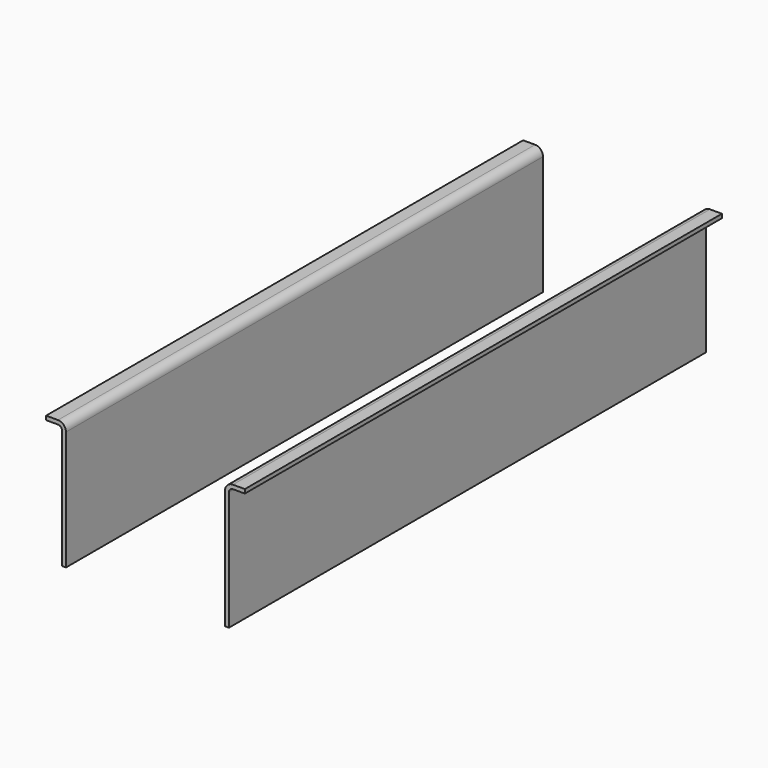
from build123d import *

# Parameters (mm, degrees)
F1_DEPTH = 150


with BuildPart() as f1:
    # F0 (on Front) → F1 (new body)
    with BuildSketch(Plane.XZ):
        with BuildLine():
            ThreePointArc((21, 30), (21.292893, 30.707107), (22, 31))
            Line((22, 31), (25, 31))
            Line((25, 31), (25, 32))
            Line((25, 32), (22, 32))
            ThreePointArc((22, 32), (20.585786, 31.414214), (20, 30))
            Line((20, 30), (20, 0))
            Line((20, 0), (21, 0))
            Line((21, 0), (21, 30))
        make_face()
        with BuildLine():
            Line((-22, 32), (-25, 32))
            Line((-25, 32), (-25, 31))
            Line((-25, 31), (-22, 31))
            ThreePointArc((-22, 31), (-21.292893, 30.707107), (-21, 30))
            Line((-21, 30), (-21, 0))
            Line((-21, 0), (-20, 0))
            Line((-20, 0), (-20, 30))
            ThreePointArc((-20, 30), (-20.585786, 31.414214), (-22, 32))
        make_face()
    extrude(amount=F1_DEPTH)


solid = f1.part
